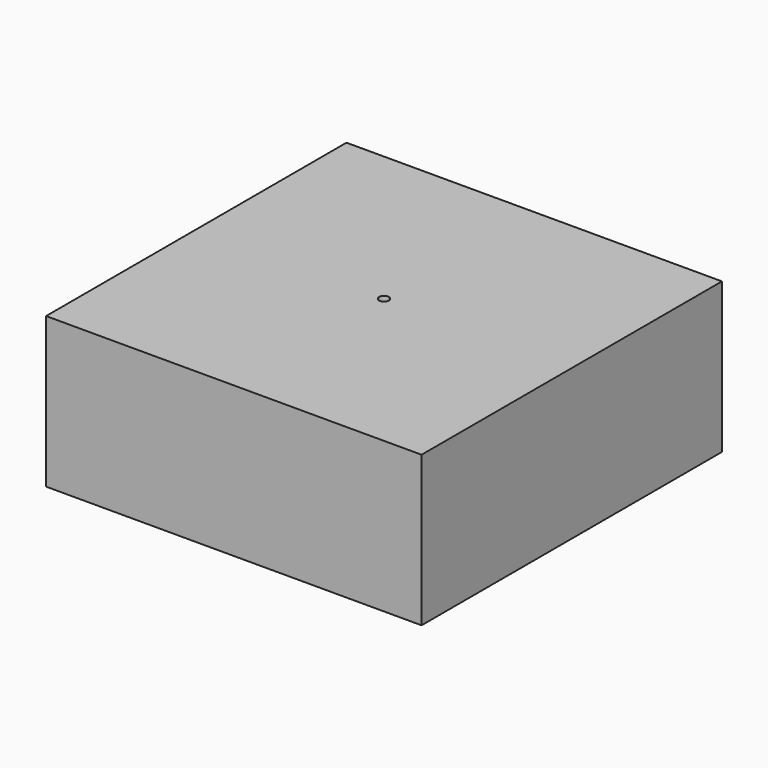
from build123d import *

# Parameters (mm, degrees)
F0_W     = 50
F0_H     = 50
F1_DEPTH = 10
F2_R     = 0.65
F3_DEPTH = 4


with BuildPart() as f1:
    # F0 (on Top) → F1 (new body, symmetric)
    with BuildSketch(Plane.XY):
        Rectangle(F0_W, F0_H)
    extrude(amount=F1_DEPTH, both=True)

    # F2 (on face) → F3 (cut)
    with BuildSketch(Plane.XY.offset(10)):
        Circle(F2_R)
    extrude(amount=-F3_DEPTH, mode=Mode.SUBTRACT)


solid = f1.part
